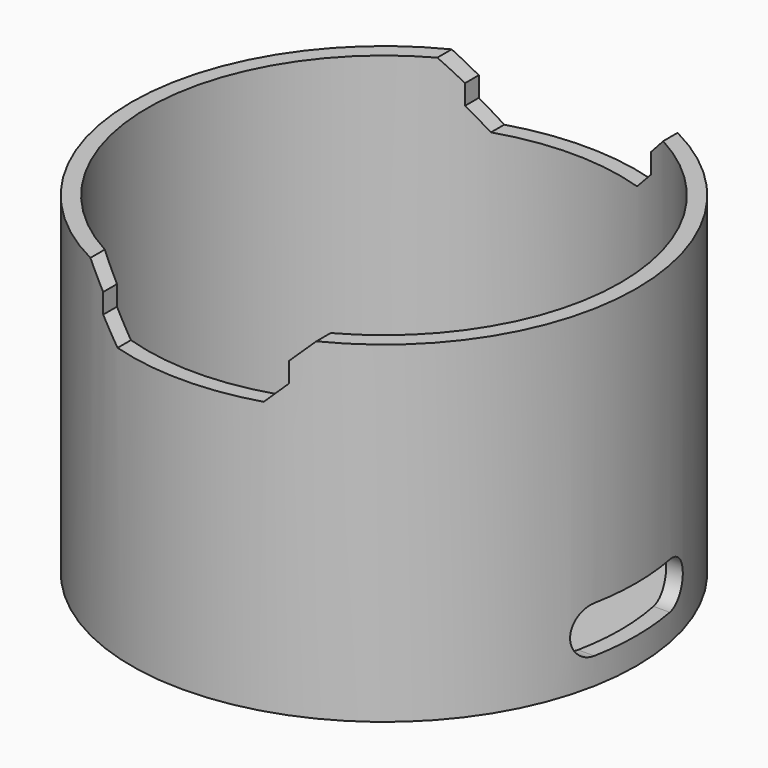
from build123d import *

# Parameters (mm, degrees)
SKETCH010_R     = 19
PAD007_DEPTH    = 25
THICKNESS001_T  = -1.2
BOX001_W        = 14
BOX001_H        = 50
BOX001_DEPTH    = 10
CHAMFER002_SIZE = 1.5
SKETCH012_R     = 3.55
POCKET_DEPTH    = 23
POCKET002_DEPTH = 27


with BuildPart() as part:
    # Sketch010 → Pad007 (new body)
    with BuildSketch(Plane.XY):
        Circle(SKETCH010_R)
    extrude(amount=-PAD007_DEPTH)

    # Thickness001
    thickness001_openings = [part.faces().sort_by_distance(p)[0] for p in [
        (0, 0, 0),
    ]]
    offset(amount=THICKNESS001_T, openings=thickness001_openings)

    # Box001 → Box001 (cut)
    with BuildSketch(Plane(origin=(-7, -24, -4.5), x_dir=(1, 0, 0), z_dir=(0, 0, 1))):
        with Locations((7, 25)):
            Rectangle(BOX001_W, BOX001_H)
    extrude(amount=BOX001_DEPTH, mode=Mode.SUBTRACT)

    # Chamfer002
    chamfer002_edges = [part.edges().sort_by_distance(p)[0] for p in [
        (7, 17.01467, -4.5),
        (7, 17.01467, 0),
        (7, -17.01467, -4.5),
        (7, -17.01467, 0),
        (-7, -17.01467, -4.5),
        (-7, -17.01467, 0),
        (-7, 17.01467, -4.5),
        (-7, 17.01467, 0),
    ]]
    chamfer(chamfer002_edges, length=CHAMFER002_SIZE)

    # Sketch012 → Pocket (cut)
    with BuildSketch(Plane.XY.offset(-4)):
        with Locations((-10, 0)):
            Circle(SKETCH012_R)
    extrude(amount=-POCKET_DEPTH, mode=Mode.SUBTRACT)

    # Sketch013 → Pocket002 (cut)
    with BuildSketch(Plane.YZ.offset(20)):
        with BuildLine():
            ThreePointArc((-3.55, -19.5), (-5.3, -21.25), (-3.55, -23))
            Line((-3.55, -23), (3.55, -23))
            ThreePointArc((3.55, -23), (5.3, -21.25), (3.55, -19.5))
            Line((3.55, -19.5), (-3.55, -19.5))
        make_face()
    extrude(amount=-POCKET002_DEPTH, mode=Mode.SUBTRACT)


with BuildPart() as part_1:
    # Body006 placement: moved
    add(part.part.moved(Location((0, 0, -3))))


solid = part_1.part
